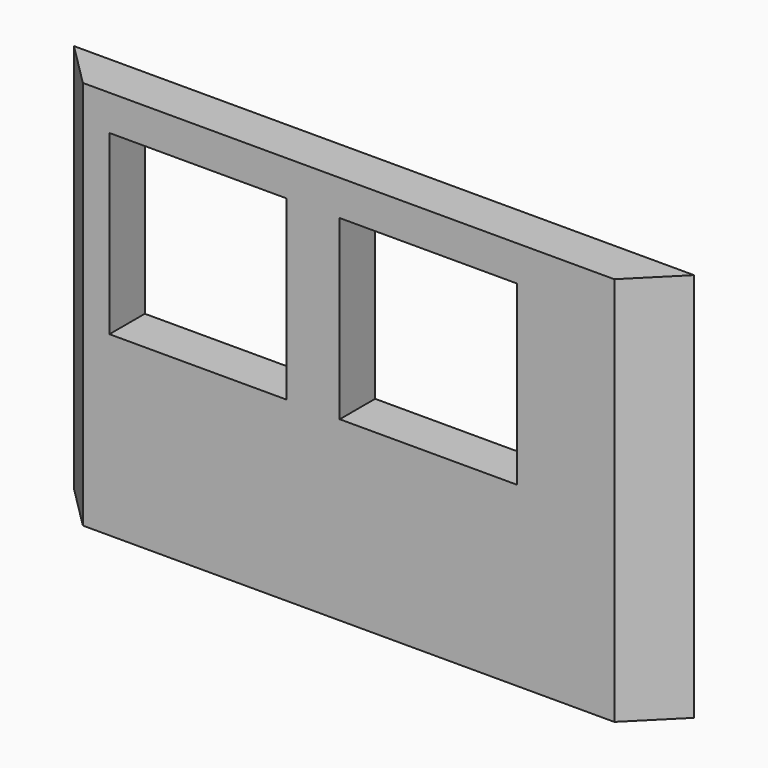
from build123d import *

# Parameters (mm, degrees)
F0_W     = 3500
F0_H     = 2200
F1_DEPTH = 250
F3_DEPTH = 2200.001
F4_W     = 1000
F4_H     = 1000
F5_DEPTH = 250.001


with BuildPart() as f1:
    # F0 (on Front) → F1 (new body)
    with BuildSketch(Plane.XZ):
        with Locations((1750, 1100)):
            Rectangle(F0_W, F0_H)
    extrude(amount=F1_DEPTH)

    # F2 (on face) → F3 (cut, through all)
    with BuildSketch(Plane.XY.offset(2200)):
        Polygon((250, -250), (0, 0), (0, -250), align=None)
        Polygon((3250, -250), (3500, -250), (3500, 0), align=None)
    extrude(amount=-F3_DEPTH, mode=Mode.SUBTRACT)

    # F4 (on face) → F5 (cut, through all)
    with BuildSketch(Plane(origin=(0, 0, 0), x_dir=(-1, 0, 0), z_dir=(0, 1, 0))):
        with Locations((-2200, 1500)):
            Rectangle(F4_W, F4_H)
        with Locations((-900, 1500)):
            Rectangle(F4_W, F4_H)
    extrude(amount=-F5_DEPTH, mode=Mode.SUBTRACT)


solid = f1.part
